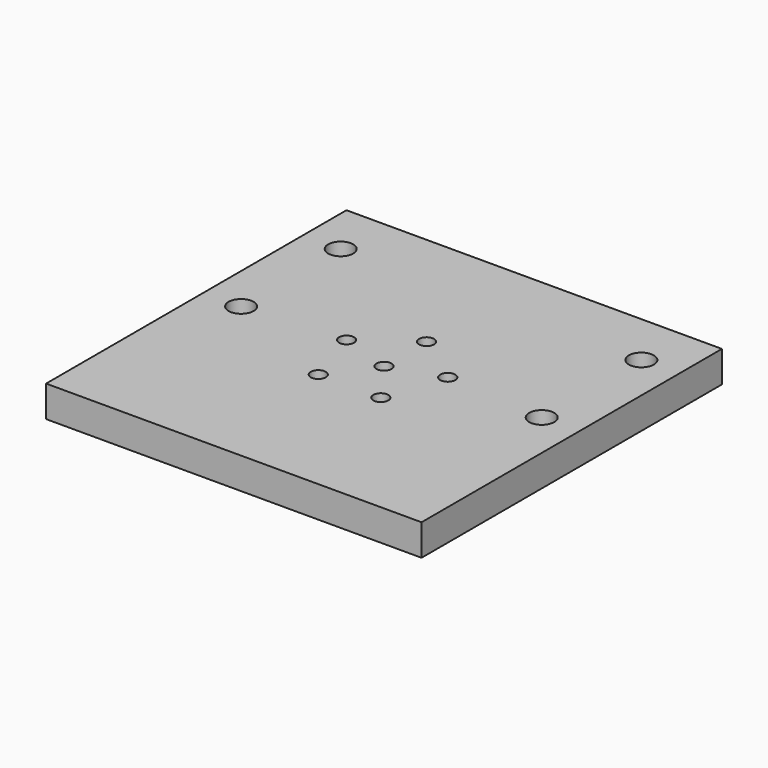
from build123d import *

# Parameters (mm, degrees)
F0_W           = 300
F0_H           = 300
F1_DEPTH       = 25
F4_D           = 12
F4_DEPTH       = 35.25
F4_CBORE_D     = 19.25
F4_CBORE_DEPTH = 12
F4_TIP         = 3.6051637142
F5_D           = 12
F6_D           = 20
F6_DEPTH       = 25
F6_TIP         = 6.0086061903


with BuildPart() as f1:
    # F0 (on Top) → F1 (new body)
    with BuildSketch(Plane.XY):
        Rectangle(F0_W, F0_H)
    extrude(amount=F1_DEPTH)

    # F4
    with Locations(Plane(origin=(0, 0, 0), x_dir=(1, 0, 0), z_dir=(0, 0, -1))):
        with Locations((0, -42.5), (-40.4199019425, -13.1332222609), (-24.9808732224, 34.3832222609), (24.9808732224, 34.3832222609), (40.4199019425, -13.1332222609)):
            CounterBoreHole(F4_D / 2, F4_CBORE_D / 2, F4_CBORE_DEPTH, depth=F4_DEPTH)
            with Locations((0, 0, -(F4_DEPTH + F4_TIP / 2))):  # 118° drill point
                Cone(0, F4_D / 2, F4_TIP, mode=Mode.SUBTRACT)

    # F5 (through all)
    with Locations(Plane.XY.offset(25)):
        with Locations((0, 0)):
            Hole(F5_D / 2)

    # F6
    with Locations(Plane(origin=(0, 0, 0), x_dir=(1, 0, 0), z_dir=(0, 0, -1))):
        with Locations((-120.1043392265, -106.8988462075), (-120.1043392265, -7.4011537925), (120.1043392265, -7.4011537925), (120.1043392265, -106.8988462075)):
            Hole(F6_D / 2, depth=F6_DEPTH)
            with Locations((0, 0, -(F6_DEPTH + F6_TIP / 2))):  # 118° drill point
                Cone(0, F6_D / 2, F6_TIP, mode=Mode.SUBTRACT)


solid = f1.part
